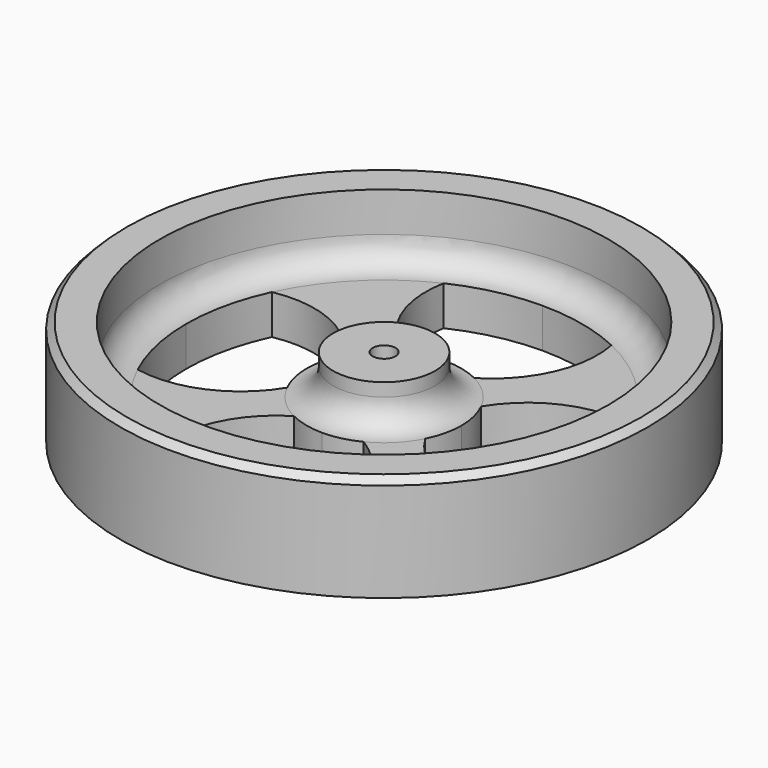
from build123d import *

# Parameters (mm, degrees)
F2_SIZE  = 0.5
F4_DEPTH = 3


with BuildPart() as f1:
    # F0 (on Front) → F1 (revolve)
    with BuildSketch(Plane.XZ):
        with BuildLine():
            Line((0.8636, 6), (0.8636, 0))
            Line((0.8636, 0), (20, 0))
            Line((20, 0), (20, 8))
            Line((20, 8), (17, 8))
            Line((17, 8), (17, 5))
            ThreePointArc((17, 5), (16.4142135624, 3.5857864376), (15, 3))
            Line((15, 3), (5.8636, 3))
            ThreePointArc((5.8636, 3), (4.4493864376, 3.5857864376), (3.8636, 5))
            Line((3.8636, 5), (3.8636, 6))
            Line((3.8636, 6), (0.8636, 6))
        make_face()
    revolve(axis=Axis((0, 0, 9.2181318827), (0, 0, 1)))

    # F2
    f2_edges = [f1.edges().sort_by_distance(p)[0] for p in [
        (-20, 0, 8),
    ]]
    chamfer(f2_edges, length=F2_SIZE)

    # F3 (on face) → F4 (cut, through all)
    with BuildSketch(Plane.XY.offset(3)):
        with BuildLine():
            ThreePointArc((13.5867362981, 6.3561463771), (8.8277844457, 5.8106888065), (5.2335374725, 2.6442183124))
            ThreePointArc((5.2335374725, 2.6442183124), (5.7039098557, 1.3591237317), (5.8636, 0))
            ThreePointArc((5.8636, 0), (5.7039098557, -1.3591237317), (5.2335374725, -2.6442183124))
            ThreePointArc((5.2335374725, -2.6442183124), (8.8277844457, -5.8106888065), (13.5867362981, -6.3561463771))
            ThreePointArc((13.5867362981, -6.3561463771), (14.6424220071, -3.2556839166), (15, 0))
            ThreePointArc((15, 0), (14.6424220071, 3.2556839166), (13.5867362981, 6.3561463771))
        make_face()
        with BuildLine():
            ThreePointArc((0, 15), (-3.2556839166, 14.6424220071), (-6.3561463771, 13.5867362981))
            ThreePointArc((-6.3561463771, 13.5867362981), (-5.8106888065, 8.8277844457), (-2.6442183124, 5.2335374725))
            ThreePointArc((-2.6442183124, 5.2335374725), (-1.3591237317, 5.7039098557), (0, 5.8636))
            ThreePointArc((0, 5.8636), (1.3591237317, 5.7039098557), (2.6442183124, 5.2335374725))
            ThreePointArc((2.6442183124, 5.2335374725), (5.8106888065, 8.8277844457), (6.3561463771, 13.5867362981))
            ThreePointArc((6.3561463771, 13.5867362981), (3.2556839166, 14.6424220071), (0, 15))
        make_face()
        with BuildLine():
            ThreePointArc((-15, 0), (-14.6424220071, -3.2556839166), (-13.5867362981, -6.3561463771))
            ThreePointArc((-13.5867362981, -6.3561463771), (-8.8277844457, -5.8106888065), (-5.2335374725, -2.6442183124))
            ThreePointArc((-5.2335374725, -2.6442183124), (-5.7039098557, -1.3591237317), (-5.8636, 0))
            ThreePointArc((-5.8636, 0), (-5.7039098557, 1.3591237317), (-5.2335374725, 2.6442183124))
            ThreePointArc((-5.2335374725, 2.6442183124), (-8.8277844457, 5.8106888065), (-13.5867362981, 6.3561463771))
            ThreePointArc((-13.5867362981, 6.3561463771), (-14.6424220071, 3.2556839166), (-15, 0))
        make_face()
        with BuildLine():
            ThreePointArc((0, -15), (3.2556839166, -14.6424220071), (6.3561463771, -13.5867362981))
            ThreePointArc((6.3561463771, -13.5867362981), (5.8106888065, -8.8277844457), (2.6442183124, -5.2335374725))
            ThreePointArc((2.6442183124, -5.2335374725), (1.3591237317, -5.7039098557), (0, -5.8636))
            ThreePointArc((0, -5.8636), (-1.3591237317, -5.7039098557), (-2.6442183124, -5.2335374725))
            ThreePointArc((-2.6442183124, -5.2335374725), (-5.8106888065, -8.8277844457), (-6.3561463771, -13.5867362981))
            ThreePointArc((-6.3561463771, -13.5867362981), (-3.2556839166, -14.6424220071), (0, -15))
        make_face()
    extrude(amount=-F4_DEPTH, mode=Mode.SUBTRACT)


solid = f1.part
